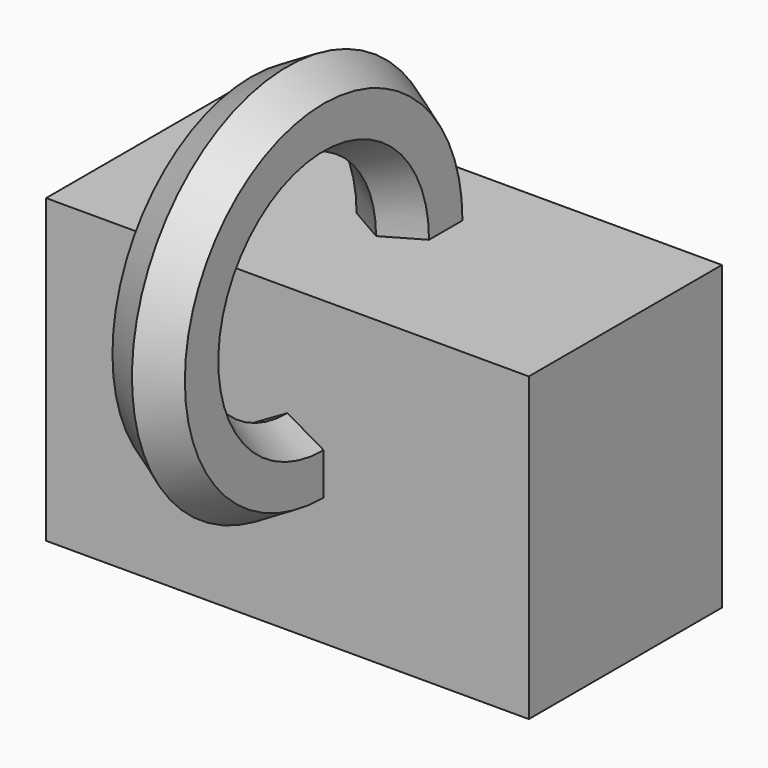
from build123d import *

# Parameters (mm, degrees)
F0_W     = 40
F0_H     = 20
F1_DEPTH = 25


with BuildPart() as f1:
    # F0 (on Top) → F1 (new body)
    with BuildSketch(Plane.XY):
        with Locations((-74.290519, 33.515131)):
            Rectangle(F0_W, F0_H)
    extrude(amount=F1_DEPTH)

    # F2 (on face) → F3 (revolve)
    with BuildSketch(Plane.XY.offset(25)):
        Polygon((-71.290519, 37.890665), (-74.290519, 39.622715), (-77.290519, 37.890665), (-77.290519, 34.426563), (-74.290519, 32.694512), (-71.290519, 34.426563), align=None)
    revolve(axis=Axis((-74.290519, 23.515131, 25), (1, 0, 0)))


solid = f1.part
